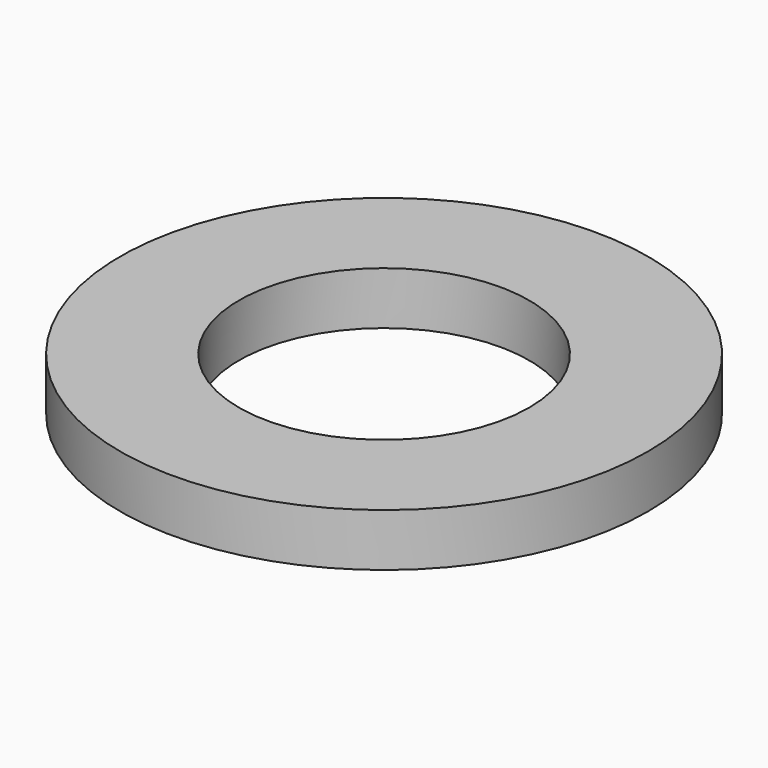
from build123d import *

# Parameters (mm, degrees)
F0_R     = 10
F0_R_2   = 5.5
F1_DEPTH = 2


with BuildPart() as f1:
    # F0 (on Top) → F1 (new body)
    with BuildSketch(Plane.XY):
        Circle(F0_R)
        Circle(F0_R_2, mode=Mode.SUBTRACT)
        Circle(F0_R)
        Circle(F0_R_2, mode=Mode.SUBTRACT)
    extrude(amount=F1_DEPTH)


solid = f1.part
